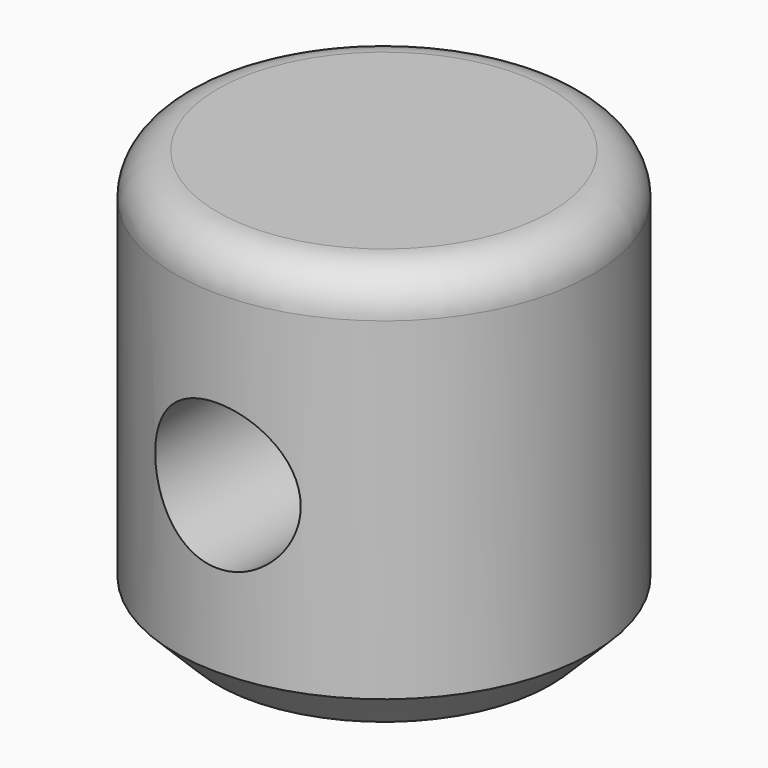
from build123d import *

# Parameters (mm, degrees)
F0_R          = 127
F1_DEPTH      = 254
F2_R          = 25.4
F3_SIZE       = 25.4
F4_R          = 44.390641743
F5_DEPTH      = 127.001
F5_DEPTH_BACK = 127.001


with BuildPart() as f1:
    # F0 (on Top) → F1 (new body)
    with BuildSketch(Plane.XY):
        Circle(F0_R)
    extrude(amount=F1_DEPTH)

    # F2
    f2_edges = [f1.edges().sort_by_distance(p)[0] for p in [
        (-127, 0, 254),
    ]]
    fillet(f2_edges, radius=F2_R)

    # F3
    f3_edges = [f1.edges().sort_by_distance(p)[0] for p in [
        (-127, 0, 0),
    ]]
    chamfer(f3_edges, length=F3_SIZE)

    # F4 (on Front) → F5 (cut, two sides)
    with BuildSketch(Plane.XZ) as f5_sk:
        with Locations((0, 125.6312429905)):
            Circle(F4_R)
    extrude(amount=-F5_DEPTH, mode=Mode.SUBTRACT)
    extrude(f5_sk.sketch, amount=F5_DEPTH_BACK, mode=Mode.SUBTRACT)


solid = f1.part
